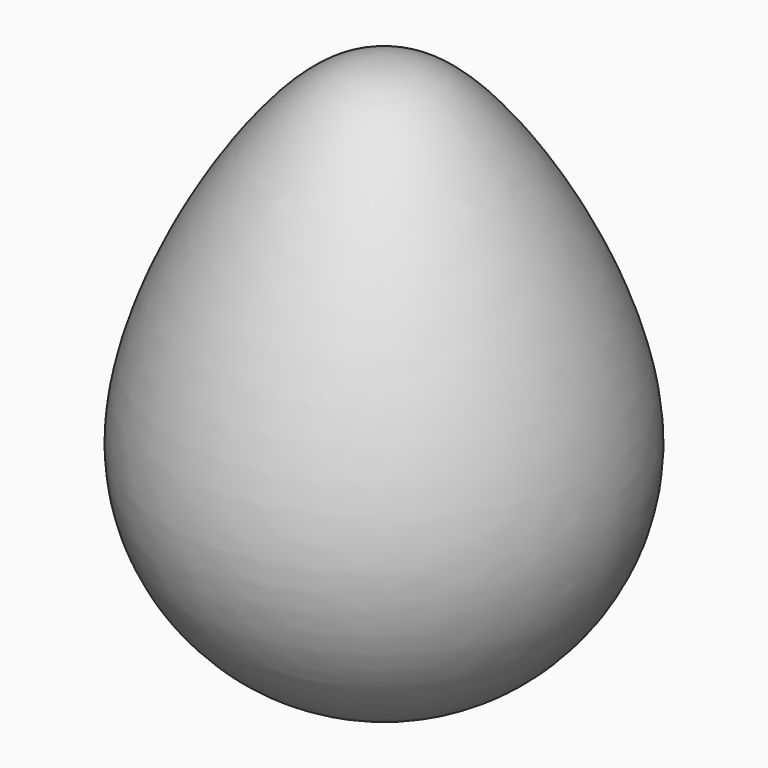
from build123d import *


with BuildPart() as f1:
    # F0 (on Front) → F1 (revolve)
    with BuildSketch(Plane.XZ):
        with BuildLine():
            Line((-19.3542401595, 16.3404095446), (-19.3542401595, -9.7075089473))
            add(Edge.make_bspline(
                [(-19.3542401595, -9.7075089473), (-15.0659214791, -9.7075089473), (-3.0669732551, -7.0576229688), (12.3352428059, 16.1541893922), (-8.2719594356, 51.200218007), (-16.0419608638, 53.8270516661), (-19.3542401595, 53.7924910527)],
                knots=[0, 0, 0, 0, 0.2146471823, 0.486495413, 0.8224015259, 1, 1, 1, 1], degree=3))
            Line((-19.3542401595, 53.7924910527), (-19.3542401595, 52.1639326621))
            Line((-19.3542401595, 52.1639326621), (-11.2129134868, 44.0226059894))
            Line((-11.2129134868, 44.0226059894), (-2.9418341166, 34.4011469588))
            Line((-2.9418341166, 34.4011469588), (2.6103053434, 20.3700848172))
            Line((2.6103053434, 20.3700848172), (-0.2880322564, 16.3404095446))
            Line((-0.2880322564, 16.3404095446), (-19.3542401595, 16.3404095446))
        make_face()
    revolve(axis=Axis((-19.3542401595, 0, 22.0424910527), (0, 0, -1)))


solid = f1.part
